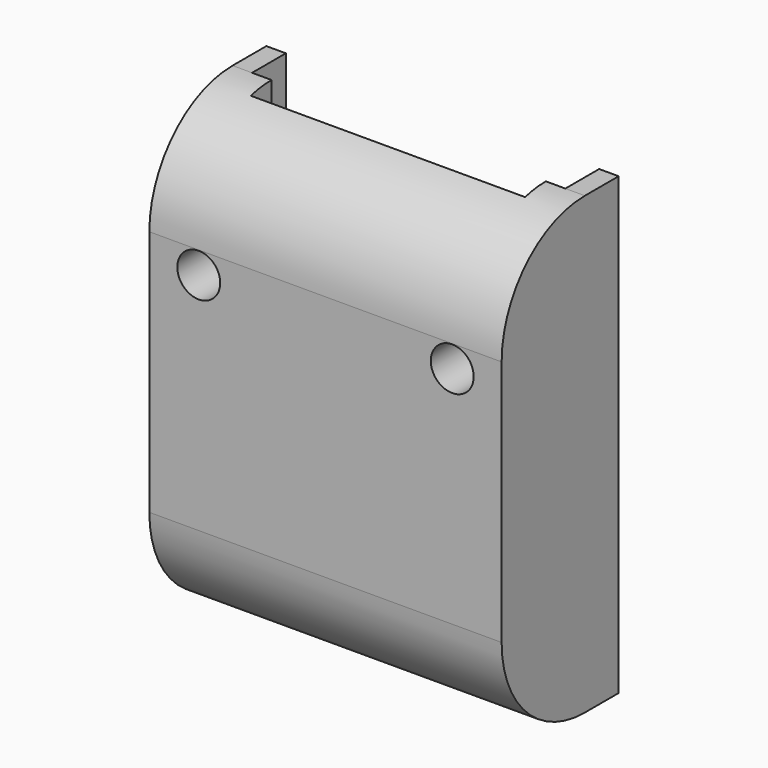
from build123d import *

# Parameters (mm, degrees)
SKETCH_R        = 1.65
PAD_DEPTH       = 8
SKETCH001_W     = 12
SKETCH001_H     = 7
POCKET_DEPTH    = 10
POCKET001_DEPTH = 24.101
PAD001_DEPTH    = 24.1
POCKET002_DEPTH = 12
PAD002_DEPTH    = 1.75
POCKET003_DEPTH = 2
PAD003_DEPTH    = 1.5
SKETCH009_W     = 24.1
SKETCH009_H     = 1.5
PAD004_DEPTH    = 1.5
FILLET_R        = 3


with BuildPart() as part:
    # Sketch → Pad (new body)
    with BuildSketch(Plane.XZ):
        Polygon((-12.05, 6), (-12.05, -6), (-12.05, -11), (12.05, -11), (12.05, -6), (12.05, 6), align=None)
        with Locations((-9.75, -3.7)):
            Circle(SKETCH_R, mode=Mode.SUBTRACT)
        with Locations((9.75, -3.7)):
            Circle(SKETCH_R, mode=Mode.SUBTRACT)
    extrude(amount=PAD_DEPTH)

    # Sketch001 (on Face1 of Pad) → Pocket (cut)
    with BuildSketch(Plane(origin=(0, 0, -11), x_dir=(1, 0, 0), z_dir=(0, 0, -1))):
        with Locations((0, 3.5)):
            Rectangle(SKETCH001_W, SKETCH001_H)
    extrude(amount=-POCKET_DEPTH, mode=Mode.SUBTRACT)

    # Sketch003 (on Face8 of Pocket) → Pocket001 (cut, through all)
    with BuildSketch(Plane(origin=(-12.05, 0, 0), x_dir=(0, 0, -1), z_dir=(-1, 0, 0))):
        with BuildLine():
            ThreePointArc((2, 8), (-3.656854, 5.656854), (-6, 0))
            Line((-6, 0), (-6, 8))
            Line((-6, 8), (2, 8))
        make_face()
    extrude(amount=-POCKET001_DEPTH, mode=Mode.SUBTRACT)

    # Sketch004 (on Face8 of Pocket001) → Pad001 (join)
    with BuildSketch(Plane(origin=(-12.05, 0, 0), x_dir=(0, 0, -1), z_dir=(-1, 0, 0))):
        with BuildLine():
            Line((11, 8), (21, 8))
            ThreePointArc((29, 0), (26.656854, 5.656854), (21, 8))
            Line((29, 0), (11, 0))
            Line((11, 0), (11, 8))
        make_face()
    extrude(amount=-PAD001_DEPTH)

    # Sketch005 (on Face4 of Pad001) → Pocket002 (cut)
    with BuildSketch(Plane(origin=(-6, 0, 0), x_dir=(0, 0, 1), z_dir=(1, 0, 0))):
        with BuildLine():
            Line((-11, 7), (-19, 7))
            ThreePointArc((-19, 7), (-23.949747, 4.949747), (-26, 0))
            Line((-26, 0), (-11, 0))
            Line((-11, 0), (-11, 7))
        make_face()
    extrude(amount=POCKET002_DEPTH, mode=Mode.SUBTRACT)

    # Sketch006 (on Face3 of Pocket002) → Pad002 (join)
    with BuildSketch(Plane(origin=(0, 0, 0), x_dir=(1, 0, 0), z_dir=(0, 1, 0))):
        Polygon((-12.05, 6), (-12.05, 29), (12.05, 29), (12.05, 6), (6, 6), (6, 26), (-6, 26), (-6, 6), align=None)
    extrude(amount=PAD002_DEPTH)

    # Sketch007 (on Face2 of Pad002) → Pocket003 (cut)
    with BuildSketch(Plane(origin=(0, 0, 0), x_dir=(1, 0, 0), z_dir=(0, 1, 0))):
        Polygon((-6, 1), (-10.55, 0.999989), (-10.55, -6), (10.55, -6), (10.55, 1), (6, 1), align=None)
    extrude(amount=-POCKET003_DEPTH, mode=Mode.SUBTRACT)

    # Sketch008 (on Face8 of Pocket003) → Pad003 (join)
    with BuildSketch(Plane(origin=(12.05, 0, 0), x_dir=(0, 0, 1), z_dir=(1, 0, 0))):
        with BuildLine():
            Line((-29, 0), (-29, -3.25))
            Line((-29, -3.25), (6, -3.25))
            Line((6, -3.25), (6, 0))
            ThreePointArc((6, 0), (3.656854, 5.656854), (-2, 8))
            Line((-2, 8), (-21, 8))
            ThreePointArc((-21, 8), (-26.656854, 5.656854), (-29, 0))
        make_face()
    pad003 = extrude(amount=PAD003_DEPTH)

    # Mirrored: Pad003 across YZ
    add(pad003.mirror(Plane.YZ))

    # Sketch009 (on Face11 of Mirrored) → Pad004 (join)
    with BuildSketch(Plane(origin=(0, 1.75, 0), x_dir=(1, 0, 0), z_dir=(0, 1, 0))):
        with Locations((0, 28.25)):
            Rectangle(SKETCH009_W, SKETCH009_H)
    extrude(amount=PAD004_DEPTH)

    # Fillet
    fillet_edges = [part.edges().sort_by_distance(p)[0] for p in [
        (-12.05, 2.5, -27.5),
        (12.05, 2.5, -27.5),
    ]]
    fillet(fillet_edges, radius=FILLET_R)


solid = part.part
